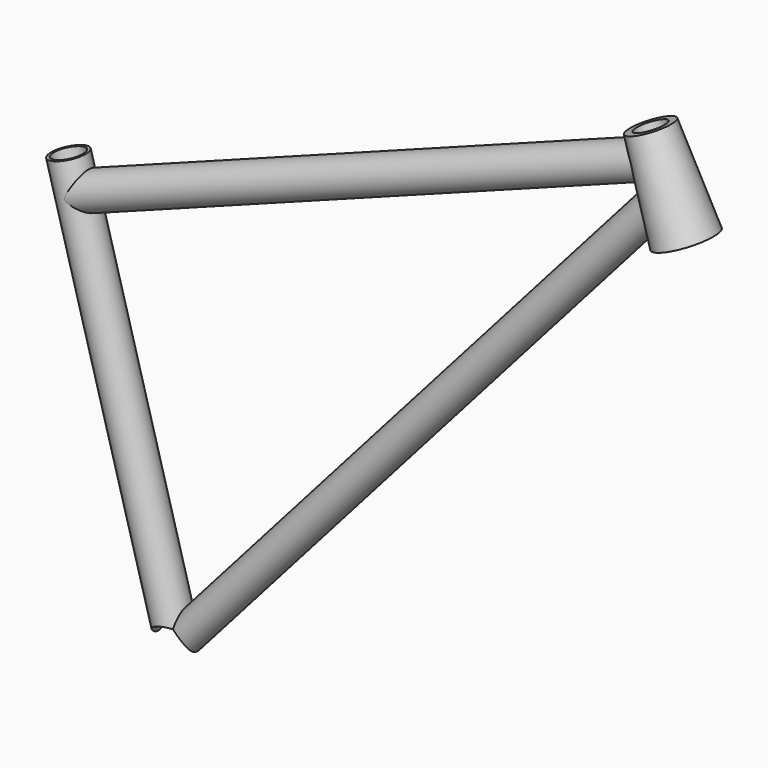
from build123d import *

# Parameters (mm, degrees)
F3_R      = 20.95
F4_DEPTH  = 34
F11_DEPTH = 34


with BuildPart() as f2:
    # F1 (on Front) → F2 (revolve)
    with BuildSketch(Plane.XZ):
        Polygon((-100.2216173051, 420.5107221282), (15.2253611607, 4.222366342), (18.1162525203, 5.0240814703), (-97.3307259455, 421.3124372564), align=None)
    revolve(axis=Axis((-57.7234892329, 0, 208.1441778931), (-0.2672383761, 0, 0.9636304532)))

    # F3 (on Front) → F4 (cut, symmetric)
    with BuildSketch(Plane.XZ):
        Circle(F3_R)
    extrude(amount=F4_DEPTH, both=True, mode=Mode.SUBTRACT)


with BuildPart() as f6:
    # F5 (on Front) → F6 (revolve)
    with BuildSketch(Plane.XZ):
        Polygon((519.9854747557, 649.6592731855), (513.1561672436, 646.9000538463), (557.8025014581, 557.0848694886), (564.6318089702, 559.8440888278), align=None)
    revolve(axis=Axis((517.283351205, 0, 594.6408072717), (0.3746065934, 0, -0.9271838546)))


with BuildPart() as f8:
    # F7 (on Front) → F8 (revolve)
    with BuildSketch(Plane.XZ):
        Polygon((501.9433554963, 632.3349844185), (-111.4384028246, 401.833898988), (-110.6335066782, 398.9315372473), (502.9986639738, 629.5267244559), align=None)
    revolve(axis=Axis((201.2858190491, 0, 499.3107872101), (-0.9361233845, 0, -0.3516717347)))


with BuildPart() as f10:
    # F9 (on Front) → F10 (revolve)
    with BuildSketch(Plane.XZ):
        Polygon((5.918784176, -14.6495049022), (7.0426039562, -17.4310564659), (528.2832571646, 572.1216891941), (527.1594373843, 574.9032407578), align=None)
    revolve(axis=Axis((260.6203266042, 0, 294.77637283), (-0.6623694184, 0, -0.7491773845)))

    # F3 (on Front) → F11 (cut, symmetric)
    with BuildSketch(Plane.XZ):
        Circle(F3_R)
    extrude(amount=F11_DEPTH, both=True, mode=Mode.SUBTRACT)


solid = Compound([f2.part, f6.part, f8.part, f10.part])
